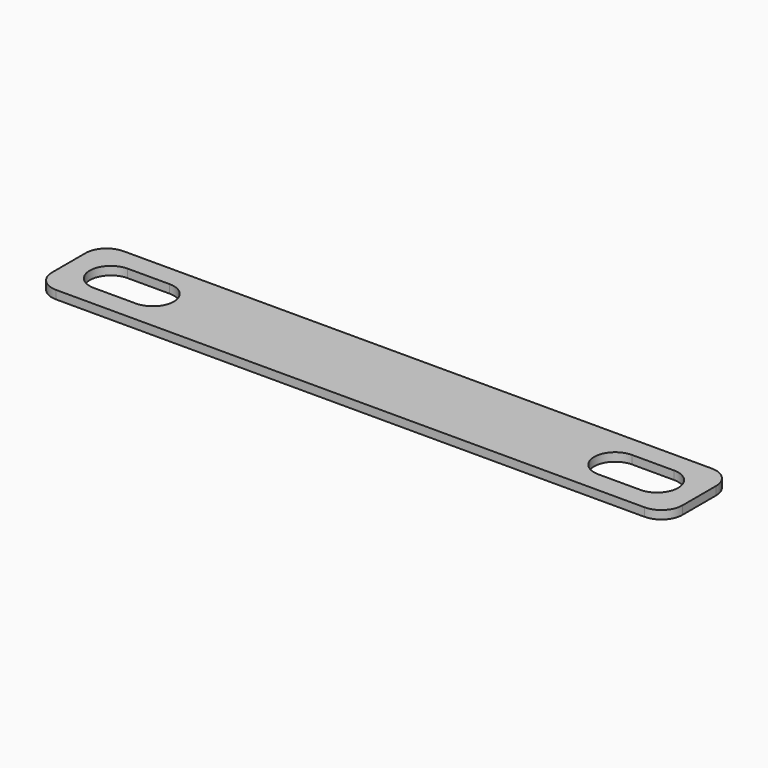
from build123d import *

# Parameters (mm, degrees)
SKETCH074_W     = 2
SKETCH074_H     = 0.2
PAD047_DEPTH    = 7.5
POCKET021_DEPTH = 0.2
FILLET019_R     = 0.5


with BuildPart() as part:
    # Sketch074 → Pad047 (new body, symmetric)
    with BuildSketch(Plane.YZ):
        with Locations((21.35, -8.25)):
            Rectangle(SKETCH074_W, SKETCH074_H)
    extrude(amount=PAD047_DEPTH, both=True)

    # Sketch075 (on Face3 of Pad047) → Pocket021 (cut)
    with BuildSketch(Plane.YX.offset(8.35)):
        with BuildLine():
            ThreePointArc((21.85, 6.4999958532), (21.35, 7), (20.85, 6.4999958531))
            Line((20.85, 6.4999958531), (20.85, 5.4999999932))
            ThreePointArc((20.85, 5.4999999932), (21.35, 5), (21.85, 5.4999999932))
            Line((21.85, 6.4999958532), (21.85, 5.4999999932))
        make_face()
        with BuildLine():
            ThreePointArc((20.85, -6.4999958531), (21.35, -7), (21.85, -6.4999958532))
            Line((21.85, -6.4999958532), (21.85, -5.4999999932))
            ThreePointArc((21.85, -5.4999999932), (21.35, -5), (20.85, -5.4999999932))
            Line((20.85, -6.4999958531), (20.85, -5.4999999932))
        make_face()
    extrude(amount=-POCKET021_DEPTH, mode=Mode.SUBTRACT)

    # Fillet019
    fillet019_edges = [part.edges().sort_by_distance(p)[0] for p in [
        (-7.5, 22.35, -8.25),
        (-7.5, 20.35, -8.25),
        (7.5, 20.35, -8.25),
        (7.5, 22.35, -8.25),
    ]]
    fillet(fillet019_edges, radius=FILLET019_R)


with BuildPart() as part_1:
    # Body026 placement: moved
    add(part.part.moved(Location((0, 25.7, 0))))


solid = part_1.part
